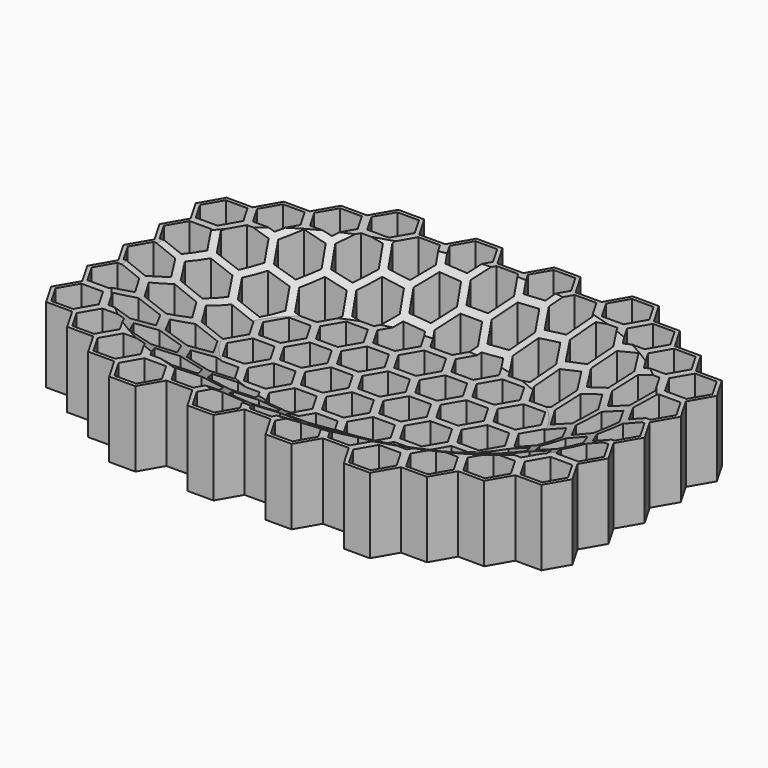
from build123d import *

# Parameters (mm, degrees)
F1_DEPTH = 20


with BuildPart() as f1:
    # F0 (on Top) → F1 (new body)
    with BuildSketch(Plane.XY):
        Polygon((6.928203, 48), (3.464102, 42), (-3.464102, 42), (-6.928203, 48), (-13.856406, 48), (-17.320508, 42), (-24.248711, 42), (-27.712813, 48), (-34.641016, 48), (-38.105118, 42), (-45.033321, 42), (-48.497423, 36), (-55.425626, 36), (-58.889727, 30), (-65.817931, 30), (-69.282032, 24), (-65.817931, 18), (-69.282032, 12), (-65.817931, 6), (-69.282032, 0), (-65.817931, -6), (-69.282032, -12), (-65.817931, -18), (-69.282032, -24), (-65.817931, -30), (-58.889727, -30), (-55.425626, -36), (-48.497423, -36), (-45.033321, -42), (-38.105118, -42), (-34.641016, -48), (-27.712813, -48), (-24.248711, -42), (-17.320508, -42), (-13.856406, -48), (-6.928203, -48), (-3.464102, -42), (3.464102, -42), (6.928203, -48), (13.856406, -48), (17.320508, -42), (24.248711, -42), (27.712813, -48), (34.641016, -48), (38.105118, -42), (45.033321, -42), (48.497423, -36), (55.425626, -36), (58.889727, -30), (65.817931, -30), (69.282032, -24), (65.817931, -18), (69.282032, -12), (65.817931, -6), (69.282032, 0), (65.817931, 6), (69.282032, 12), (65.817931, 18), (69.282032, 24), (65.817931, 30), (58.889727, 30), (55.425626, 36), (48.497423, 36), (45.033321, 42), (38.105118, 42), (34.641016, 48), (27.712813, 48), (24.248711, 42), (17.320508, 42), (13.856406, 48), align=None)
        Polygon((-47.342722, -36), (-44.455971, -31), (-38.682468, -31), (-35.795717, -36), (-38.682468, -41), (-44.455971, -41), align=None, mode=Mode.SUBTRACT)
        Polygon((-57.735027, -30), (-54.848276, -25), (-49.074773, -25), (-46.188022, -30), (-49.074773, -35), (-54.848276, -35), align=None, mode=Mode.SUBTRACT)
        Polygon((-36.950417, -42), (-34.063666, -37), (-28.290163, -37), (-25.403412, -42), (-28.290163, -47), (-34.063666, -47), align=None, mode=Mode.SUBTRACT)
        Polygon((-16.165808, -42), (-13.279056, -37), (-7.505553, -37), (-4.618802, -42), (-7.505553, -47), (-13.279056, -47), align=None, mode=Mode.SUBTRACT)
        Polygon((-26.558112, -36), (-23.671361, -31), (-17.897858, -31), (-15.011107, -36), (-17.897858, -41), (-23.671361, -41), align=None, mode=Mode.SUBTRACT)
        Polygon((-36.950417, -30), (-34.063666, -25), (-28.290163, -25), (-25.403412, -30), (-28.290163, -35), (-34.063666, -35), align=None, mode=Mode.SUBTRACT)
        Polygon((-5.773503, -36), (-2.886751, -31), (2.886751, -31), (5.773503, -36), (2.886751, -41), (-2.886751, -41), align=None, mode=Mode.SUBTRACT)
        Polygon((-16.165808, -30), (-13.279056, -25), (-7.505553, -25), (-4.618802, -30), (-7.505553, -35), (-13.279056, -35), align=None, mode=Mode.SUBTRACT)
        Polygon((-68.127332, -24), (-65.24058, -19), (-59.467078, -19), (-56.580326, -24), (-59.467078, -29), (-65.24058, -29), align=None, mode=Mode.SUBTRACT)
        Polygon((-47.342722, -24), (-44.455971, -19), (-38.682468, -19), (-35.795717, -24), (-38.682468, -29), (-44.455971, -29), align=None, mode=Mode.SUBTRACT)
        Polygon((-57.735027, -18), (-54.848276, -13), (-49.074773, -13), (-46.188022, -18), (-49.074773, -23), (-54.848276, -23), align=None, mode=Mode.SUBTRACT)
        Polygon((-68.127332, -12), (-65.24058, -7), (-59.467078, -7), (-56.580326, -12), (-59.467078, -17), (-65.24058, -17), align=None, mode=Mode.SUBTRACT)
        Polygon((-47.342722, -12), (-44.455971, -7), (-38.682468, -7), (-35.795717, -12), (-38.682468, -17), (-44.455971, -17), align=None, mode=Mode.SUBTRACT)
        Polygon((-57.735027, -6), (-54.848276, -1), (-49.074773, -1), (-46.188022, -6), (-49.074773, -11), (-54.848276, -11), align=None, mode=Mode.SUBTRACT)
        Polygon((-26.558112, -24), (-23.671361, -19), (-17.897858, -19), (-15.011107, -24), (-17.897858, -29), (-23.671361, -29), align=None, mode=Mode.SUBTRACT)
        Polygon((-36.950417, -18), (-34.063666, -13), (-28.290163, -13), (-25.403412, -18), (-28.290163, -23), (-34.063666, -23), align=None, mode=Mode.SUBTRACT)
        Polygon((-5.773503, -24), (-2.886751, -19), (2.886751, -19), (5.773503, -24), (2.886751, -29), (-2.886751, -29), align=None, mode=Mode.SUBTRACT)
        Polygon((-16.165808, -18), (-13.279056, -13), (-7.505553, -13), (-4.618802, -18), (-7.505553, -23), (-13.279056, -23), align=None, mode=Mode.SUBTRACT)
        Polygon((-26.558112, -12), (-23.671361, -7), (-17.897858, -7), (-15.011107, -12), (-17.897858, -17), (-23.671361, -17), align=None, mode=Mode.SUBTRACT)
        Polygon((-36.950417, -6), (-34.063666, -1), (-28.290163, -1), (-25.403412, -6), (-28.290163, -11), (-34.063666, -11), align=None, mode=Mode.SUBTRACT)
        Polygon((-16.165808, -6), (-13.279056, -1), (-7.505553, -1), (-4.618802, -6), (-7.505553, -11), (-13.279056, -11), align=None, mode=Mode.SUBTRACT)
        Polygon((4.618802, -42), (7.505553, -37), (13.279056, -37), (16.165808, -42), (13.279056, -47), (7.505553, -47), align=None, mode=Mode.SUBTRACT)
        Polygon((25.403412, -42), (28.290163, -37), (34.063666, -37), (36.950417, -42), (34.063666, -47), (28.290163, -47), align=None, mode=Mode.SUBTRACT)
        Polygon((4.618802, -30), (7.505553, -25), (13.279056, -25), (16.165808, -30), (13.279056, -35), (7.505553, -35), align=None, mode=Mode.SUBTRACT)
        Polygon((15.011107, -36), (17.897858, -31), (23.671361, -31), (26.558112, -36), (23.671361, -41), (17.897858, -41), align=None, mode=Mode.SUBTRACT)
        Polygon((25.403412, -30), (28.290163, -25), (34.063666, -25), (36.950417, -30), (34.063666, -35), (28.290163, -35), align=None, mode=Mode.SUBTRACT)
        Polygon((35.795717, -36), (38.682468, -31), (44.455971, -31), (47.342722, -36), (44.455971, -41), (38.682468, -41), align=None, mode=Mode.SUBTRACT)
        Polygon((46.188022, -30), (49.074773, -25), (54.848276, -25), (57.735027, -30), (54.848276, -35), (49.074773, -35), align=None, mode=Mode.SUBTRACT)
        Polygon((4.618802, -18), (7.505553, -13), (13.279056, -13), (16.165808, -18), (13.279056, -23), (7.505553, -23), align=None, mode=Mode.SUBTRACT)
        Polygon((15.011107, -24), (17.897858, -19), (23.671361, -19), (26.558112, -24), (23.671361, -29), (17.897858, -29), align=None, mode=Mode.SUBTRACT)
        Polygon((25.403412, -18), (28.290163, -13), (34.063666, -13), (36.950417, -18), (34.063666, -23), (28.290163, -23), align=None, mode=Mode.SUBTRACT)
        Polygon((-5.773503, -12), (-2.886751, -7), (2.886751, -7), (5.773503, -12), (2.886751, -17), (-2.886751, -17), align=None, mode=Mode.SUBTRACT)
        Polygon((4.618802, -6), (7.505553, -1), (13.279056, -1), (16.165808, -6), (13.279056, -11), (7.505553, -11), align=None, mode=Mode.SUBTRACT)
        Polygon((15.011107, -12), (17.897858, -7), (23.671361, -7), (26.558112, -12), (23.671361, -17), (17.897858, -17), align=None, mode=Mode.SUBTRACT)
        Polygon((25.403412, -6), (28.290163, -1), (34.063666, -1), (36.950417, -6), (34.063666, -11), (28.290163, -11), align=None, mode=Mode.SUBTRACT)
        Polygon((35.795717, -24), (38.682468, -19), (44.455971, -19), (47.342722, -24), (44.455971, -29), (38.682468, -29), align=None, mode=Mode.SUBTRACT)
        Polygon((46.188022, -18), (49.074773, -13), (54.848276, -13), (57.735027, -18), (54.848276, -23), (49.074773, -23), align=None, mode=Mode.SUBTRACT)
        Polygon((56.580326, -24), (59.467078, -19), (65.24058, -19), (68.127332, -24), (65.24058, -29), (59.467078, -29), align=None, mode=Mode.SUBTRACT)
        Polygon((35.795717, -12), (38.682468, -7), (44.455971, -7), (47.342722, -12), (44.455971, -17), (38.682468, -17), align=None, mode=Mode.SUBTRACT)
        Polygon((46.188022, -6), (49.074773, -1), (54.848276, -1), (57.735027, -6), (54.848276, -11), (49.074773, -11), align=None, mode=Mode.SUBTRACT)
        Polygon((56.580326, -12), (59.467078, -7), (65.24058, -7), (68.127332, -12), (65.24058, -17), (59.467078, -17), align=None, mode=Mode.SUBTRACT)
        Polygon((-68.127332, 0), (-65.24058, 5), (-59.467078, 5), (-56.580326, 0), (-59.467078, -5), (-65.24058, -5), align=None, mode=Mode.SUBTRACT)
        Polygon((-47.342722, 0), (-44.455971, 5), (-38.682468, 5), (-35.795717, 0), (-38.682468, -5), (-44.455971, -5), align=None, mode=Mode.SUBTRACT)
        Polygon((-57.735027, 6), (-54.848276, 11), (-49.074773, 11), (-46.188022, 6), (-49.074773, 1), (-54.848276, 1), align=None, mode=Mode.SUBTRACT)
        Polygon((-68.127332, 12), (-65.24058, 17), (-59.467078, 17), (-56.580326, 12), (-59.467078, 7), (-65.24058, 7), align=None, mode=Mode.SUBTRACT)
        Polygon((-47.342722, 12), (-44.455971, 17), (-38.682468, 17), (-35.795717, 12), (-38.682468, 7), (-44.455971, 7), align=None, mode=Mode.SUBTRACT)
        Polygon((-57.735027, 18), (-54.848276, 23), (-49.074773, 23), (-46.188022, 18), (-49.074773, 13), (-54.848276, 13), align=None, mode=Mode.SUBTRACT)
        Polygon((-26.558112, 0), (-23.671361, 5), (-17.897858, 5), (-15.011107, 0), (-17.897858, -5), (-23.671361, -5), align=None, mode=Mode.SUBTRACT)
        Polygon((-36.950417, 6), (-34.063666, 11), (-28.290163, 11), (-25.403412, 6), (-28.290163, 1), (-34.063666, 1), align=None, mode=Mode.SUBTRACT)
        Polygon((-16.165808, 6), (-13.279056, 11), (-7.505553, 11), (-4.618802, 6), (-7.505553, 1), (-13.279056, 1), align=None, mode=Mode.SUBTRACT)
        Polygon((-26.558112, 12), (-23.671361, 17), (-17.897858, 17), (-15.011107, 12), (-17.897858, 7), (-23.671361, 7), align=None, mode=Mode.SUBTRACT)
        Polygon((-36.950417, 18), (-34.063666, 23), (-28.290163, 23), (-25.403412, 18), (-28.290163, 13), (-34.063666, 13), align=None, mode=Mode.SUBTRACT)
        Polygon((-16.165808, 18), (-13.279056, 23), (-7.505553, 23), (-4.618802, 18), (-7.505553, 13), (-13.279056, 13), align=None, mode=Mode.SUBTRACT)
        Polygon((-68.127332, 24), (-65.24058, 29), (-59.467078, 29), (-56.580326, 24), (-59.467078, 19), (-65.24058, 19), align=None, mode=Mode.SUBTRACT)
        Polygon((-47.342722, 24), (-44.455971, 29), (-38.682468, 29), (-35.795717, 24), (-38.682468, 19), (-44.455971, 19), align=None, mode=Mode.SUBTRACT)
        Polygon((-57.735027, 30), (-54.848276, 35), (-49.074773, 35), (-46.188022, 30), (-49.074773, 25), (-54.848276, 25), align=None, mode=Mode.SUBTRACT)
        Polygon((-47.342722, 36), (-44.455971, 41), (-38.682468, 41), (-35.795717, 36), (-38.682468, 31), (-44.455971, 31), align=None, mode=Mode.SUBTRACT)
        Polygon((-26.558112, 24), (-23.671361, 29), (-17.897858, 29), (-15.011107, 24), (-17.897858, 19), (-23.671361, 19), align=None, mode=Mode.SUBTRACT)
        Polygon((-36.950417, 30), (-34.063666, 35), (-28.290163, 35), (-25.403412, 30), (-28.290163, 25), (-34.063666, 25), align=None, mode=Mode.SUBTRACT)
        Polygon((-16.165808, 30), (-13.279056, 35), (-7.505553, 35), (-4.618802, 30), (-7.505553, 25), (-13.279056, 25), align=None, mode=Mode.SUBTRACT)
        Polygon((-26.558112, 36), (-23.671361, 41), (-17.897858, 41), (-15.011107, 36), (-17.897858, 31), (-23.671361, 31), align=None, mode=Mode.SUBTRACT)
        Polygon((-36.950417, 42), (-34.063666, 47), (-28.290163, 47), (-25.403412, 42), (-28.290163, 37), (-34.063666, 37), align=None, mode=Mode.SUBTRACT)
        Polygon((-16.165808, 42), (-13.279056, 47), (-7.505553, 47), (-4.618802, 42), (-7.505553, 37), (-13.279056, 37), align=None, mode=Mode.SUBTRACT)
        Polygon((-5.773503, 0), (-2.886751, 5), (2.886751, 5), (5.773503, 0), (2.886751, -5), (-2.886751, -5), align=None, mode=Mode.SUBTRACT)
        Polygon((4.618802, 6), (7.505553, 11), (13.279056, 11), (16.165808, 6), (13.279056, 1), (7.505553, 1), align=None, mode=Mode.SUBTRACT)
        Polygon((15.011107, 0), (17.897858, 5), (23.671361, 5), (26.558112, 0), (23.671361, -5), (17.897858, -5), align=None, mode=Mode.SUBTRACT)
        Polygon((25.403412, 6), (28.290163, 11), (34.063666, 11), (36.950417, 6), (34.063666, 1), (28.290163, 1), align=None, mode=Mode.SUBTRACT)
        Polygon((-5.773503, 12), (-2.886751, 17), (2.886751, 17), (5.773503, 12), (2.886751, 7), (-2.886751, 7), align=None, mode=Mode.SUBTRACT)
        Polygon((4.618802, 18), (7.505553, 23), (13.279056, 23), (16.165808, 18), (13.279056, 13), (7.505553, 13), align=None, mode=Mode.SUBTRACT)
        Polygon((15.011107, 12), (17.897858, 17), (23.671361, 17), (26.558112, 12), (23.671361, 7), (17.897858, 7), align=None, mode=Mode.SUBTRACT)
        Polygon((25.403412, 18), (28.290163, 23), (34.063666, 23), (36.950417, 18), (34.063666, 13), (28.290163, 13), align=None, mode=Mode.SUBTRACT)
        Polygon((35.795717, 0), (38.682468, 5), (44.455971, 5), (47.342722, 0), (44.455971, -5), (38.682468, -5), align=None, mode=Mode.SUBTRACT)
        Polygon((46.188022, 6), (49.074773, 11), (54.848276, 11), (57.735027, 6), (54.848276, 1), (49.074773, 1), align=None, mode=Mode.SUBTRACT)
        Polygon((56.580326, 0), (59.467078, 5), (65.24058, 5), (68.127332, 0), (65.24058, -5), (59.467078, -5), align=None, mode=Mode.SUBTRACT)
        Polygon((35.795717, 12), (38.682468, 17), (44.455971, 17), (47.342722, 12), (44.455971, 7), (38.682468, 7), align=None, mode=Mode.SUBTRACT)
        Polygon((46.188022, 18), (49.074773, 23), (54.848276, 23), (57.735027, 18), (54.848276, 13), (49.074773, 13), align=None, mode=Mode.SUBTRACT)
        Polygon((56.580326, 12), (59.467078, 17), (65.24058, 17), (68.127332, 12), (65.24058, 7), (59.467078, 7), align=None, mode=Mode.SUBTRACT)
        Polygon((-5.773503, 24), (-2.886751, 29), (2.886751, 29), (5.773503, 24), (2.886751, 19), (-2.886751, 19), align=None, mode=Mode.SUBTRACT)
        Polygon((4.618802, 30), (7.505553, 35), (13.279056, 35), (16.165808, 30), (13.279056, 25), (7.505553, 25), align=None, mode=Mode.SUBTRACT)
        Polygon((15.011107, 24), (17.897858, 29), (23.671361, 29), (26.558112, 24), (23.671361, 19), (17.897858, 19), align=None, mode=Mode.SUBTRACT)
        Polygon((25.403412, 30), (28.290163, 35), (34.063666, 35), (36.950417, 30), (34.063666, 25), (28.290163, 25), align=None, mode=Mode.SUBTRACT)
        Polygon((-5.773503, 36), (-2.886751, 41), (2.886751, 41), (5.773503, 36), (2.886751, 31), (-2.886751, 31), align=None, mode=Mode.SUBTRACT)
        Polygon((4.618802, 42), (7.505553, 47), (13.279056, 47), (16.165808, 42), (13.279056, 37), (7.505553, 37), align=None, mode=Mode.SUBTRACT)
        Polygon((15.011107, 36), (17.897858, 41), (23.671361, 41), (26.558112, 36), (23.671361, 31), (17.897858, 31), align=None, mode=Mode.SUBTRACT)
        Polygon((25.403412, 42), (28.290163, 47), (34.063666, 47), (36.950417, 42), (34.063666, 37), (28.290163, 37), align=None, mode=Mode.SUBTRACT)
        Polygon((35.795717, 24), (38.682468, 29), (44.455971, 29), (47.342722, 24), (44.455971, 19), (38.682468, 19), align=None, mode=Mode.SUBTRACT)
        Polygon((46.188022, 30), (49.074773, 35), (54.848276, 35), (57.735027, 30), (54.848276, 25), (49.074773, 25), align=None, mode=Mode.SUBTRACT)
        Polygon((56.580326, 24), (59.467078, 29), (65.24058, 29), (68.127332, 24), (65.24058, 19), (59.467078, 19), align=None, mode=Mode.SUBTRACT)
        Polygon((35.795717, 36), (38.682468, 41), (44.455971, 41), (47.342722, 36), (44.455971, 31), (38.682468, 31), align=None, mode=Mode.SUBTRACT)
    extrude(amount=F1_DEPTH)

    # F3 (on offset) → F6 section 0
    with BuildSketch(Plane.XY.offset(20)):
        with BuildLine():
            add(Edge.make_bspline(
                [(65, 0), (65, 69.282032), (-32.5, 34.641016), (-130, 0), (-32.5, -34.641016), (65, -69.282032), (65, 0)],
                knots=[0, 0, 0, 2.094395, 2.094395, 4.18879, 4.18879, 6.283185, 6.283185, 6.283185], degree=2, weights=[1, 0.5, 1, 0.5, 1, 0.5, 1]))
        make_face()
    # F5 (on offset) → F6 section 1
    with BuildSketch(Plane.XY.offset(10)):
        with BuildLine():
            add(Edge.make_bspline(
                [(40, 0), (40, 38.971143), (-20, 19.485572), (-80, 0), (-20, -19.485572), (40, -38.971143), (40, 0)],
                knots=[0, 0, 0, 2.094395, 2.094395, 4.18879, 4.18879, 6.283185, 6.283185, 6.283185], degree=2, weights=[1, 0.5, 1, 0.5, 1, 0.5, 1]))
        make_face()
    loft(mode=Mode.SUBTRACT)


solid = f1.part
